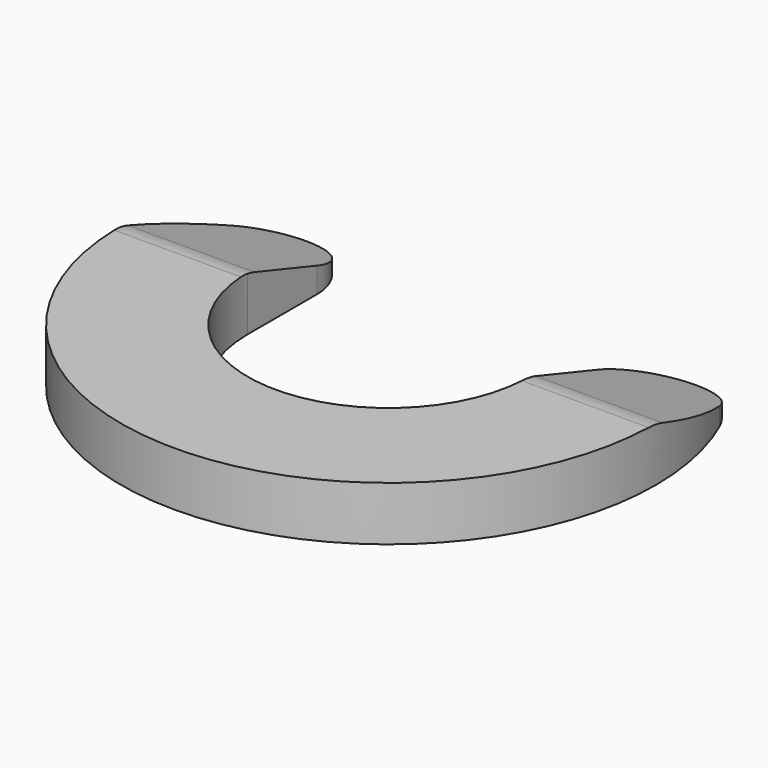
from build123d import *

# Parameters (mm, degrees)
PAD001_DEPTH = 5
PAD_DEPTH    = 1
FILLET_R     = 1


with BuildPart() as pad001:
    # Sketch001 → Pad001 (new body, symmetric)
    with BuildSketch(Plane.YZ):
        Polygon((0, 1), (3, 0), (3, 1), align=None)
    extrude(amount=PAD001_DEPTH, both=True)


with BuildPart() as fillet_body:
    # Sketch → Pad (new body)
    with BuildSketch(Plane.XY):
        with BuildLine():
            ThreePointArc((-4.513812, 2.006138), (4e-06, -4.939543), (4.513808, 2.006146))
            ThreePointArc((4.513808, 2.006146), (3.392408, 2.578216), (2.6, 1.600007))
            Line((2.6, 1.600007), (2.6, 0))
            ThreePointArc((-2.6, 0), (0, -2.6), (2.6, 0))
            Line((-2.6, 1.599999), (-2.6, 0))
            ThreePointArc((-2.6, 1.599999), (-3.392408, 2.578216), (-4.513812, 2.006138))
        make_face()
    extrude(amount=PAD_DEPTH)

    # Cut: cut Pad001
    add(pad001.part, mode=Mode.SUBTRACT)

    # Fillet
    fillet_edges = [fillet_body.edges().sort_by_distance(p)[0] for p in [
        (3.769772, 0, 1),
        (-3.769772, 0, 1),
    ]]
    fillet(fillet_edges, radius=FILLET_R)


solid = fillet_body.part
